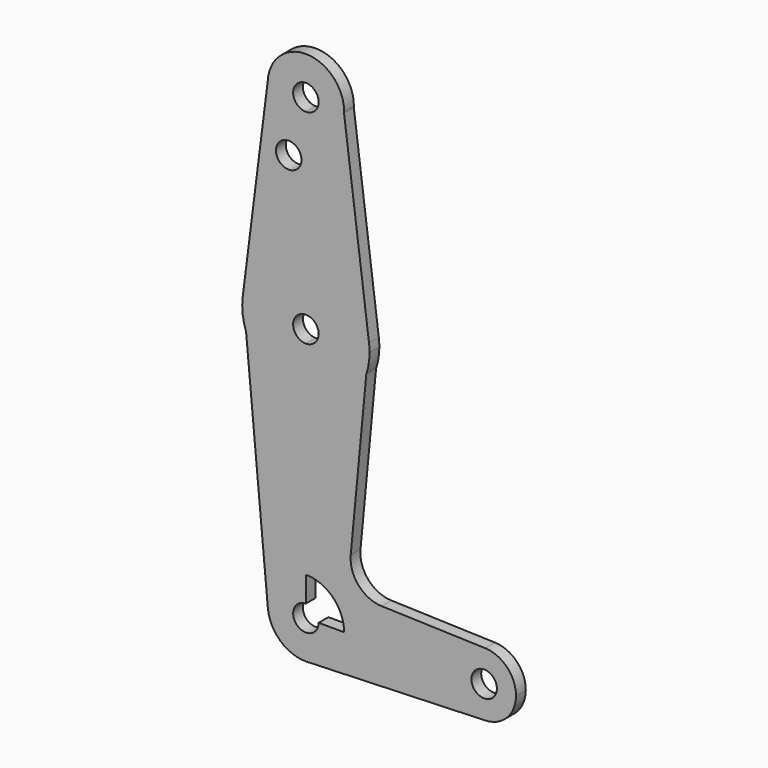
from build123d import *

# Parameters (mm, degrees)
F0_R     = 3.175
F1_DEPTH = 3.048


with BuildPart() as f1:
    # F0 (on Front) → F1 (new body)
    with BuildSketch(Plane.XZ):
        with BuildLine():
            ThreePointArc((-9.5134856125, 60.3328317471), (-6.8987420416, 53.297055555), (0, 50.3396261289))
            ThreePointArc((0, 50.3396261289), (6.5980222225, 52.9950025765), (9.5172554034, 59.4806019291))
            ThreePointArc((9.5172554034, 59.4806019291), (9.523063654, 59.6725749868), (9.525, 59.8646261289))
            ThreePointArc((9.525, 59.8646261289), (0.2341735905, 69.3867470969), (-9.5134856125, 60.3328317471))
        make_face()
        with BuildLine():
            ThreePointArc((3.175, 59.8646261289), (2.2450640303, 57.6195620986), (0, 56.6896261289))
            ThreePointArc((0, 56.6896261289), (-2.2450640303, 62.1096901592), (3.175, 59.8646261289))
        make_face(mode=Mode.SUBTRACT)
        with BuildLine():
            ThreePointArc((9.5172554034, 59.4806019291), (6.5980222225, 52.9950025765), (0, 50.3396261289))
            Line((0, 50.3396261289), (0, 24.8600798249))
            ThreePointArc((0, 24.8600798249), (10.4856506678, 20.9042557643), (15.7455515147, 11.0082536924))
            Line((15.7455515147, 11.0082536924), (9.5172554034, 59.4806019291))
        make_face()
        with BuildLine():
            Line((0, 24.8600798249), (0, 50.3396261289))
            ThreePointArc((0, 50.3396261289), (-6.8987420416, 53.297055555), (-9.5134856125, 60.3328317471))
            Line((-9.5134856125, 60.3328317471), (-15.7497827679, 10.9750465998))
            ThreePointArc((-15.7497827679, 10.9750465998), (-10.4982118108, 20.893193604), (0, 24.8600798249))
        make_face()
        with Locations((-4.2786095291, 45.7811206579)):
            Circle(F0_R, mode=Mode.SUBTRACT)
        with BuildLine():
            ThreePointArc((15.7455515147, 11.0082536924), (10.4856506678, 20.9042557643), (0, 24.8600798249))
            Line((0, 24.8600798249), (0, 12.1600798249))
            ThreePointArc((0, 12.1600798249), (2.2450640303, 11.2301438552), (3.175, 8.9850798249))
            ThreePointArc((3.175, 8.9850798249), (2.2450640303, 6.7400157947), (0, 5.8100798249))
            Line((0, 5.8100798249), (0, -6.8899201751))
            ThreePointArc((0, -6.8899201751), (9.2797921014, -3.8951796272), (15.0584100697, 3.9591559125))
            ThreePointArc((15.0584100697, 3.9591559125), (15.669522725, 6.4391649458), (15.875, 8.9850798249))
            ThreePointArc((15.875, 8.9850798249), (15.8426048252, 9.9987352654), (15.7455515147, 11.0082536924))
        make_face()
        with BuildLine():
            Line((0, 12.1600798249), (0, 24.8600798249))
            ThreePointArc((0, 24.8600798249), (-10.4982118108, 20.893193604), (-15.7497827679, 10.9750465998))
            ThreePointArc((-15.7497827679, 10.9750465998), (-15.7747791576, 7.2040779921), (-14.9096305897, 3.5336084016))
            ThreePointArc((-14.9096305897, 3.5336084016), (-9.0959748283, -4.025641405), (0, -6.8899201751))
            Line((0, -6.8899201751), (0, 5.8100798249))
            ThreePointArc((0, 5.8100798249), (-3.175, 8.9850798249), (0, 12.1600798249))
        make_face()
        with BuildLine():
            ThreePointArc((0, -6.8899201751), (-9.0959748283, -4.025641405), (-14.9096305897, 3.5336084016))
            Line((-14.9096305897, 3.5336084016), (-9.484778556, -55.3097883857))
            ThreePointArc((-9.484778556, -55.3097883857), (-7.0375572201, -48.0167748515), (0, -44.9103738711))
            Line((0, -44.9103738711), (0, -6.8899201751))
        make_face()
        with BuildLine():
            ThreePointArc((15.0584100697, 3.9591559125), (9.2797921014, -3.8951796272), (0, -6.8899201751))
            Line((0, -6.8899201751), (0, -44.9103738711))
            ThreePointArc((0, -44.9103738711), (6.7351920908, -47.7001817803), (9.525, -54.4353738711))
            Line((9.525, -54.4353738711), (36.5125, -54.4353738711))
            ThreePointArc((36.5125, -54.4353738711), (38.9282300601, -48.7332722426), (44.7049946095, -46.5019708182))
            Line((44.7049946095, -46.5019708182), (18.8373483223, -45.6705356423))
            ThreePointArc((18.8373483223, -45.6705356423), (13.126636606, -42.9790713862), (11.1780344646, -36.9741435896))
            Line((11.1780344646, -36.9741435896), (15.0584100697, 3.9591559125))
        make_face()
        with BuildLine():
            ThreePointArc((0, -44.9103738711), (-7.0375572201, -48.0167748515), (-9.484778556, -55.3097883857))
            ThreePointArc((-9.484778556, -55.3097883857), (-6.4185990196, -61.4729310912), (0, -63.9603738711))
            Line((0, -63.9603738711), (0.6773435479, -63.9362596571))
            ThreePointArc((0.6773435479, -63.9362596571), (6.9705567315, -60.9266729593), (9.525, -54.4353738711))
            Line((9.525, -54.4353738711), (3.175, -54.4353738711))
            ThreePointArc((3.175, -54.4353738711), (-2.2450640303, -56.6804379014), (0, -51.2603738711))
            Line((0, -51.2603738711), (0, -44.9103738711))
        make_face()
        with BuildLine():
            Line((0.6773435479, -63.9362596571), (0, -63.9603738711))
            ThreePointArc((0, -63.9603738711), (0.3388863295, -63.9543434086), (0.6773435479, -63.9362596571))
        make_face()
        with BuildLine():
            Line((36.5125, -54.4353738711), (9.525, -54.4353738711))
            ThreePointArc((9.525, -54.4353738711), (6.9705567315, -60.9266729593), (0.6773435479, -63.9362596571))
            Line((0.6773435479, -63.9362596571), (44.7324052746, -62.3678484857))
            ThreePointArc((44.7324052746, -62.3678484857), (38.9380895153, -60.147006655), (36.5125, -54.4353738711))
        make_face()
        with BuildLine():
            ThreePointArc((44.7049946095, -46.5019708182), (38.9282300601, -48.7332722426), (36.5125, -54.4353738711))
            ThreePointArc((36.5125, -54.4353738711), (38.9380895153, -60.147006655), (44.7324052746, -62.3678484857))
            ThreePointArc((44.7324052746, -62.3678484857), (50.1616327839, -59.9472843558), (52.3875, -54.4353738711))
            ThreePointArc((52.3875, -54.4353738711), (50.1521016285, -48.9136039312), (44.7049946095, -46.5019708182))
        make_face()
        with BuildLine():
            ThreePointArc((47.625, -54.4353738711), (44.45, -57.6103738711), (41.275, -54.4353738711))
            ThreePointArc((41.275, -54.4353738711), (44.45, -51.2603738711), (47.625, -54.4353738711))
        make_face(mode=Mode.SUBTRACT)
    extrude(amount=F1_DEPTH)


solid = f1.part
